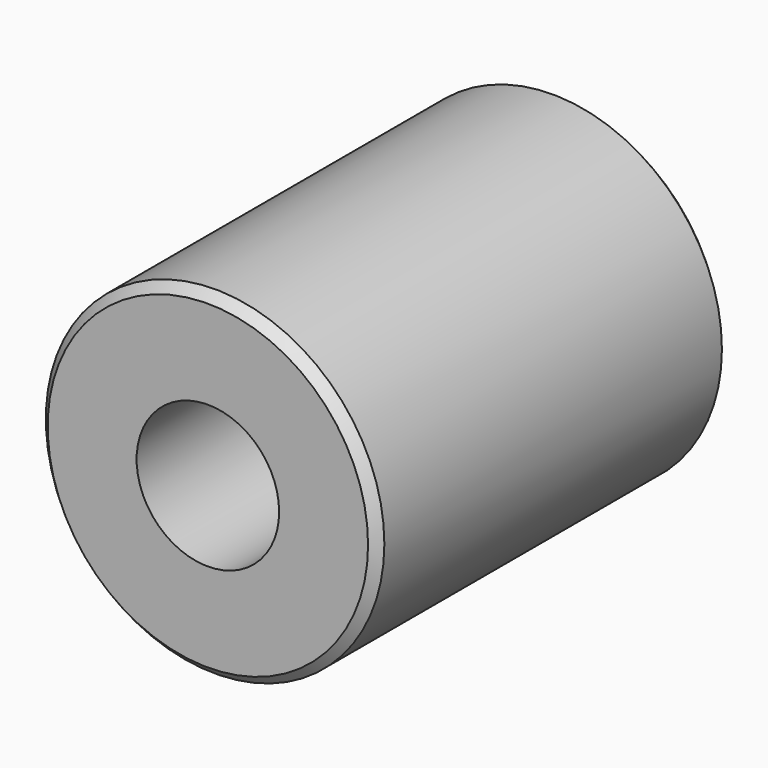
from build123d import *

# Parameters (mm, degrees)
F0_R     = 9.5
F0_R_2   = 3.175
F1_DEPTH = 24.7
F2_R     = 4
F3_DEPTH = 17
F4_SIZE  = 0.508


with BuildPart() as f1:
    # F0 (on Front) → F1 (new body)
    with BuildSketch(Plane.XZ):
        Circle(F0_R)
        Circle(F0_R_2, mode=Mode.SUBTRACT)
    extrude(amount=F1_DEPTH)

    # F2 (on face) → F3 (cut)
    with BuildSketch(Plane.XZ.offset(24.7)):
        Circle(F2_R)
    extrude(amount=-F3_DEPTH, mode=Mode.SUBTRACT)

    # F4
    f4_edges = [f1.edges().sort_by_distance(p)[0] for p in [
        (9.5, -12.35, 0),
        (-9.5, 0, 0),
        (-9.5, -24.7, 0),
    ]]
    chamfer(f4_edges, length=F4_SIZE)


solid = f1.part
